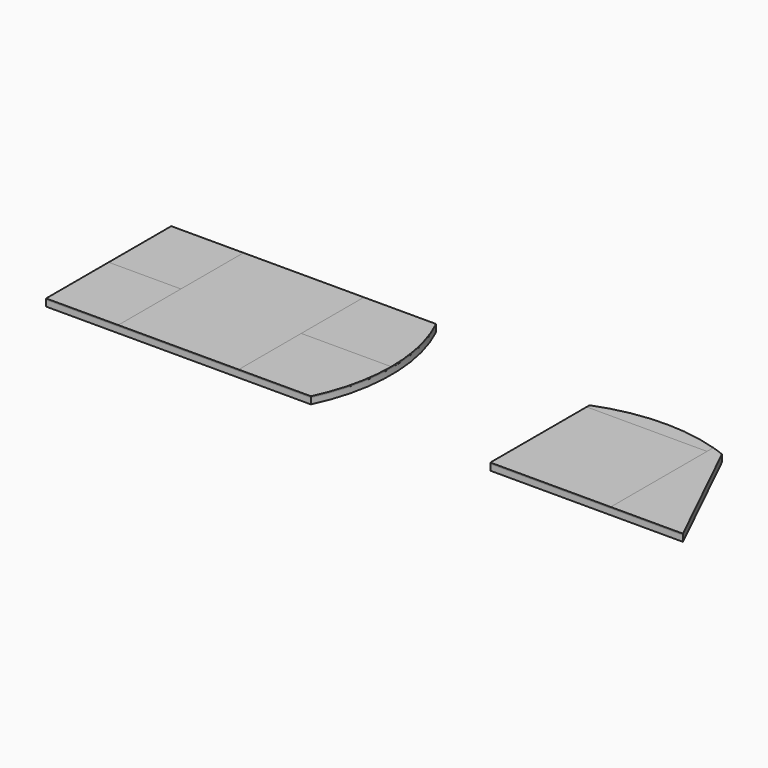
from build123d import *

# Parameters (mm, degrees)
F0_W      = 22
F0_H      = 13
F1_DEPTH  = 0.5
F2_W      = 6
F2_H      = 6.5
F4_DEPTH  = 0.1
F5_DEPTH  = 0.1
F6_DEPTH  = 0.1
F7_DEPTH  = 0.1
F8_DEPTH  = 0.1
F3_W      = 10
F3_H      = 10
F9_DEPTH  = 0.1
F10_DEPTH = 0.1
F11_DEPTH = 0.1


with BuildPart() as f1:
    # F0 (on Top) → F1 (new body)
    with BuildSketch(Plane.XY):
        with Locations((-15.15007, 6.5)):
            Rectangle(F0_W, F0_H)
        with BuildLine():
            ThreePointArc((-4.15007, 0), (-2.668576, 6.5), (-4.15007, 13))
            Line((-4.15007, 13), (-4.15007, 0))
        make_face()
        with BuildLine():
            ThreePointArc((21.75837, 10.3), (16.25837, 11.344714), (10.75837, 10.3))
            Line((10.75837, 10.3), (21.75837, 10.3))
        make_face()
        Polygon((21.75837, 10.3), (10.75837, 10.3), (10.75837, 0), (26.75837, 0), align=None)
    extrude(amount=F1_DEPTH)


with BuildPart() as f4:
    # F2 (on face) → F4 (new body)
    with BuildSketch(Plane.XY.offset(0.5)):
        with Locations((-23.15007, 3.25)):
            Rectangle(F2_W, F2_H)
    extrude(amount=F4_DEPTH)


with BuildPart() as f5:
    # F2 (on face) → F5 (new body)
    with BuildSketch(Plane.XY.offset(0.5)):
        with Locations((-23.15007, 9.75)):
            Rectangle(F2_W, F2_H)
    extrude(amount=F5_DEPTH)


with BuildPart() as f6:
    # F2 (on face) → F6 (new body)
    with BuildSketch(Plane.XY.offset(0.5)):
        Polygon((-20.15007, 0), (-10.15007, 0), (-10.15007, 6.5), (-10.15007, 13), (-20.15007, 13), (-20.15007, 6.5), align=None)
    extrude(amount=F6_DEPTH)


with BuildPart() as f7:
    # F2 (on face) → F7 (new body)
    with BuildSketch(Plane.XY.offset(0.5)):
        with BuildLine():
            Line((-10.15007, 6.5), (-10.15007, 0))
            Line((-10.15007, 0), (-4.15007, 0))
            ThreePointArc((-4.15007, 0), (-3.043639, 3.166652), (-2.668576, 6.5))
            Line((-2.668576, 6.5), (-10.15007, 6.5))
        make_face()
    extrude(amount=F7_DEPTH)


with BuildPart() as f8:
    # F2 (on face) → F8 (new body)
    with BuildSketch(Plane.XY.offset(0.5)):
        with BuildLine():
            Line((-10.15007, 13), (-10.15007, 6.5))
            Line((-10.15007, 6.5), (-2.668576, 6.5))
            ThreePointArc((-2.668576, 6.5), (-3.043639, 9.833348), (-4.15007, 13))
            Line((-4.15007, 13), (-10.15007, 13))
        make_face()
    extrude(amount=F8_DEPTH)


with BuildPart() as f9:
    # F3 (on face) → F9 (new body)
    with BuildSketch(Plane.XY.offset(0.5)):
        with Locations((15.75837, 5)):
            Rectangle(F3_W, F3_H)
    extrude(amount=F9_DEPTH)


with BuildPart() as f10:
    # F3 (on face) → F10 (new body)
    with BuildSketch(Plane.XY.offset(0.5)):
        with BuildLine():
            Line((20.75837, 10), (20.75837, 0))
            Line((20.75837, 0), (26.75837, 0))
            Line((26.75837, 0), (21.75837, 10.3))
            ThreePointArc((21.75837, 10.3), (21.261498, 10.485743), (20.75837, 10.653802))
            Line((20.75837, 10.653802), (20.75837, 10))
        make_face()
    extrude(amount=F10_DEPTH)


with BuildPart() as f11:
    # F3 (on face) → F11 (new body)
    with BuildSketch(Plane.XY.offset(0.5)):
        with BuildLine():
            Line((10.75837, 10.3), (10.75837, 10))
            Line((10.75837, 10), (20.75837, 10))
            Line((20.75837, 10), (20.75837, 10.653802))
            ThreePointArc((20.75837, 10.653802), (15.727998, 11.335335), (10.75837, 10.3))
        make_face()
    extrude(amount=F11_DEPTH)


solid = Compound([f1.part, f4.part, f5.part, f6.part, f7.part, f8.part, f9.part, f10.part, f11.part])
